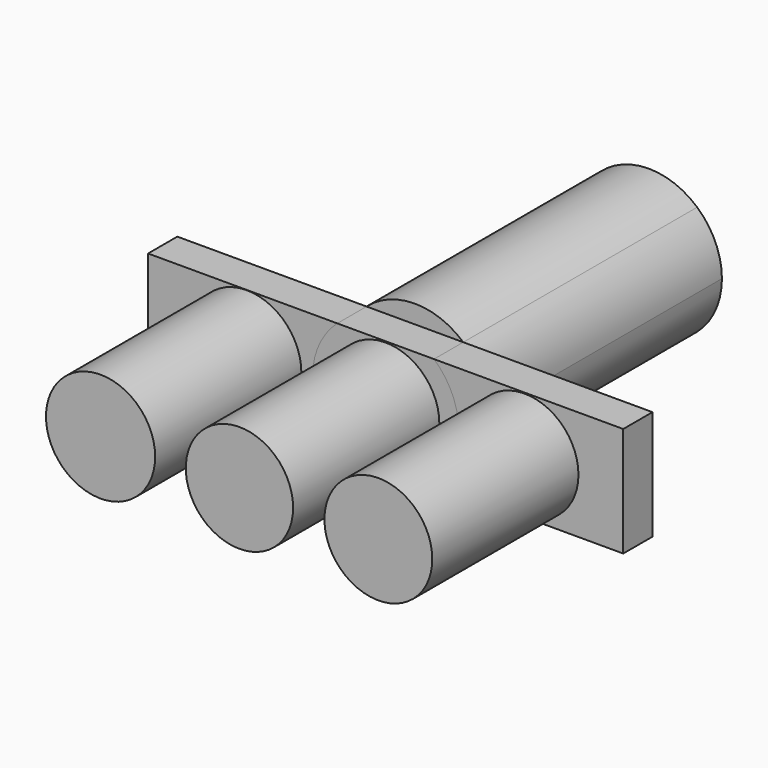
from build123d import *

# Parameters (mm, degrees)
F0_R     = 18.6453742802
F1_DEPTH = 76.2
F0_R_2   = 18.967057506
F0_R_3   = 18.7317568453
F2_DEPTH = 12.7
F3_DEPTH = 101.6
F4_DEPTH = 12.7


with BuildPart() as f1:
    # F0 (on Front) → F1 (new body)
    with BuildSketch(Plane.XZ):
        Circle(F0_R)
    extrude(amount=F1_DEPTH)



with BuildPart() as f1b:
    # F0 (on Front) → F1, piece 2 (new body)
    with BuildSketch(Plane.XZ):
        with Locations((-48.26, 0)):
            Circle(F0_R_2)
    extrude(amount=F1_DEPTH)


with BuildPart() as f1c:
    # F0 (on Front) → F1, piece 3 (new body)
    with BuildSketch(Plane.XZ):
        with Locations((48.26, 0)):
            Circle(F0_R_3)
    extrude(amount=F1_DEPTH)


with BuildPart() as f2:
    # F0 (on Front) → F2 (new body)
    with BuildSketch(Plane.XZ):
        with BuildLine():
            Line((16.8005208253, -19.05), (82.55, -19.05))
            Line((82.55, -19.05), (82.55, 19.05))
            Line((82.55, 19.05), (16.8005208253, 19.05))
            ThreePointArc((16.8005208253, 19.05), (23.1505208253, 10.4505208253), (25.4, 0))
            ThreePointArc((25.4, 0), (23.1505208253, -10.4505208253), (16.8005208253, -19.05))
        make_face()
        with Locations((48.26, 0)):
            Circle(F0_R_3, mode=Mode.SUBTRACT)
    extrude(amount=F2_DEPTH)


with BuildPart() as f2b:
    # F0 (on Front) → F2, piece 2 (new body)
    with BuildSketch(Plane.XZ):
        with BuildLine():
            Line((-82.55, -19.05), (-16.8005208253, -19.05))
            ThreePointArc((-16.8005208253, -19.05), (-25.4, 0), (-16.8005208253, 19.05))
            Line((-16.8005208253, 19.05), (-82.55, 19.05))
            Line((-82.55, 19.05), (-82.55, -19.05))
        make_face()
        with Locations((-48.26, 0)):
            Circle(F0_R_2, mode=Mode.SUBTRACT)
    extrude(amount=F2_DEPTH)


with BuildPart() as f1_1:
    add(f1.part)

    add(f2.part)  # F3 merges F2

    add(f2b.part)  # F3 merges F2b
    # F0 (on Front) → F3 (join)
    with BuildSketch(Plane.XZ):
        with BuildLine():
            Line((-16.8005208253, -19.05), (16.8005208253, -19.05))
            ThreePointArc((16.8005208253, -19.05), (23.1505208253, -10.4505208253), (25.4, 0))
            ThreePointArc((25.4, 0), (23.1505208253, 10.4505208253), (16.8005208253, 19.05))
            Line((16.8005208253, 19.05), (-16.8005208253, 19.05))
            ThreePointArc((-16.8005208253, 19.05), (-25.4, 0), (-16.8005208253, -19.05))
        make_face()
        Circle(F0_R, mode=Mode.SUBTRACT)
        Circle(F0_R)
        with BuildLine():
            ThreePointArc((-16.8005208253, -19.05), (0, -25.4), (16.8005208253, -19.05))
            Line((16.8005208253, -19.05), (-16.8005208253, -19.05))
        make_face()
        with BuildLine():
            Line((-16.8005208253, 19.05), (16.8005208253, 19.05))
            ThreePointArc((16.8005208253, 19.05), (0, 25.4), (-16.8005208253, 19.05))
        make_face()
    extrude(amount=-F3_DEPTH)


with BuildPart() as f4:
    # F0 (on Front) → F4 (new body)
    with BuildSketch(Plane.XZ):
        with BuildLine():
            Line((-16.8005208253, -19.05), (16.8005208253, -19.05))
            ThreePointArc((16.8005208253, -19.05), (23.1505208253, -10.4505208253), (25.4, 0))
            ThreePointArc((25.4, 0), (23.1505208253, 10.4505208253), (16.8005208253, 19.05))
            Line((16.8005208253, 19.05), (-16.8005208253, 19.05))
            ThreePointArc((-16.8005208253, 19.05), (-25.4, 0), (-16.8005208253, -19.05))
        make_face()
        Circle(F0_R, mode=Mode.SUBTRACT)
    extrude(amount=F4_DEPTH)


solid = Compound([f1b.part, f1c.part, f1_1.part, f4.part])
